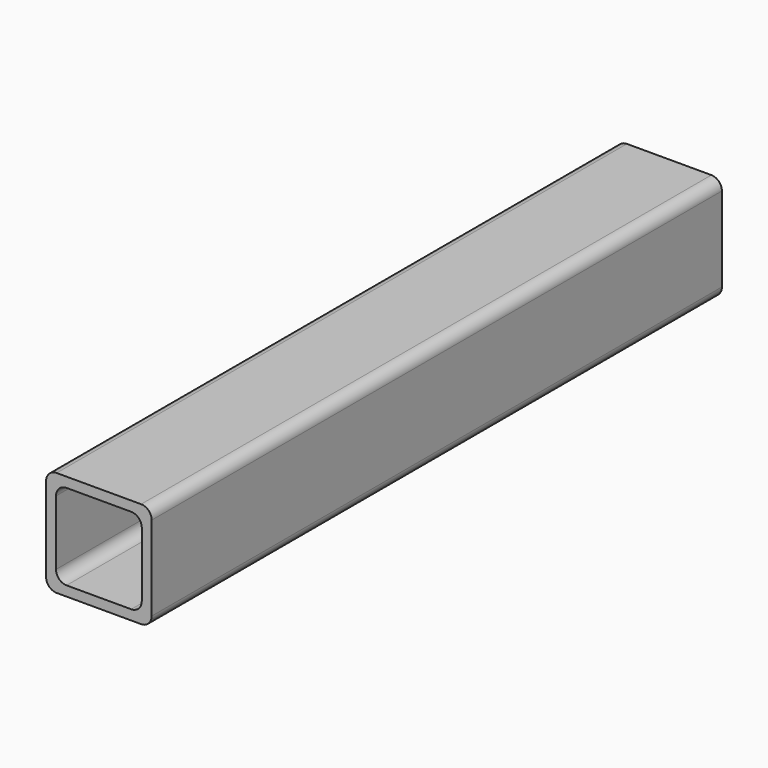
from build123d import *

# Parameters (mm, degrees)
F0_W     = 50.8
F0_H     = 50.8
F0_W_2   = 41.275
F0_H_2   = 41.275
F1_DEPTH = 171.45
F2_R     = 5.08
F3_R     = 5.08


with BuildPart() as f1:
    # F0 (on Front) → F1 (new body, symmetric)
    with BuildSketch(Plane.XZ):
        Rectangle(F0_W, F0_H)
        Rectangle(F0_W_2, F0_H_2, mode=Mode.SUBTRACT)
    extrude(amount=F1_DEPTH, both=True)

    # F2
    f2_edges = [f1.edges().sort_by_distance(p)[0] for p in [
        (-20.6375, 0, 20.6375),
        (-25.4, 0, -25.4),
        (25.4, 0, -25.4),
        (20.6375, 0, 20.6375),
        (25.4, 0, 25.4),
        (-25.4, 0, 25.4),
    ]]
    fillet(f2_edges, radius=F2_R)

    # F3
    f3_edges = [f1.edges().sort_by_distance(p)[0] for p in [
        (-20.6375, 0, -20.6375),
        (20.6375, 0, -20.6375),
    ]]
    fillet(f3_edges, radius=F3_R)


solid = f1.part
